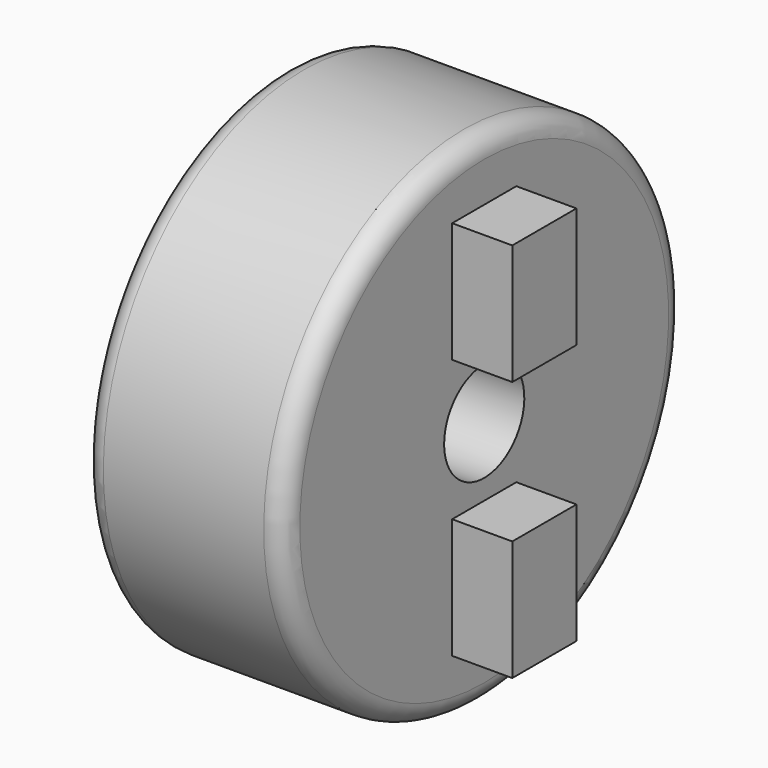
from build123d import *

# Parameters (mm, degrees)
F0_W     = 13
F0_H     = 12.5
F2_R     = 12.5
F2_W     = 4
F2_H     = 6
F3_DEPTH = 3
F4_W     = 7.990635
F4_H     = 2.5
F8_R     = 1


with BuildPart() as f1:
    # F0 (on Front) → F1 (revolve)
    with BuildSketch(Plane.XZ):
        with Locations((6.5, 6.25)):
            Rectangle(F0_W, F0_H)
    revolve(axis=Axis((9.685505, 0, 0), (1, 0, 0)))

    # F2 (on face) → F3 (cut)
    with BuildSketch(Plane.YZ.offset(13)):
        Circle(F2_R)
        with Locations((0, -6.5)):
            Rectangle(F2_W, F2_H, mode=Mode.SUBTRACT)
        with Locations((0, 6.5)):
            Rectangle(F2_W, F2_H, mode=Mode.SUBTRACT)
    extrude(amount=-F3_DEPTH, mode=Mode.SUBTRACT)

    # F4 (on Front) → F5 (revolve, cut)
    with BuildSketch(Plane.XZ):
        with Locations((8.995317, 1.25)):
            Rectangle(F4_W, F4_H)
    revolve(axis=Axis((7.811431, 0, 0), (1, 0, 0)), mode=Mode.SUBTRACT)

    # F6 (on Front) → F7 (revolve, cut)
    with BuildSketch(Plane.XZ):
        Polygon((0, 3.55), (0, 0), (6.232518, 0), (6.232518, 1.75), (1.8, 1.75), align=None)
    revolve(axis=Axis((5.52431, 0, 0), (1, 0, 0)), mode=Mode.SUBTRACT)

    # F8
    f8_edges = [f1.edges().sort_by_distance(p)[0] for p in [
        (10, 0, -12.5),
        (0, 0, -12.5),
    ]]
    fillet(f8_edges, radius=F8_R)


solid = f1.part
